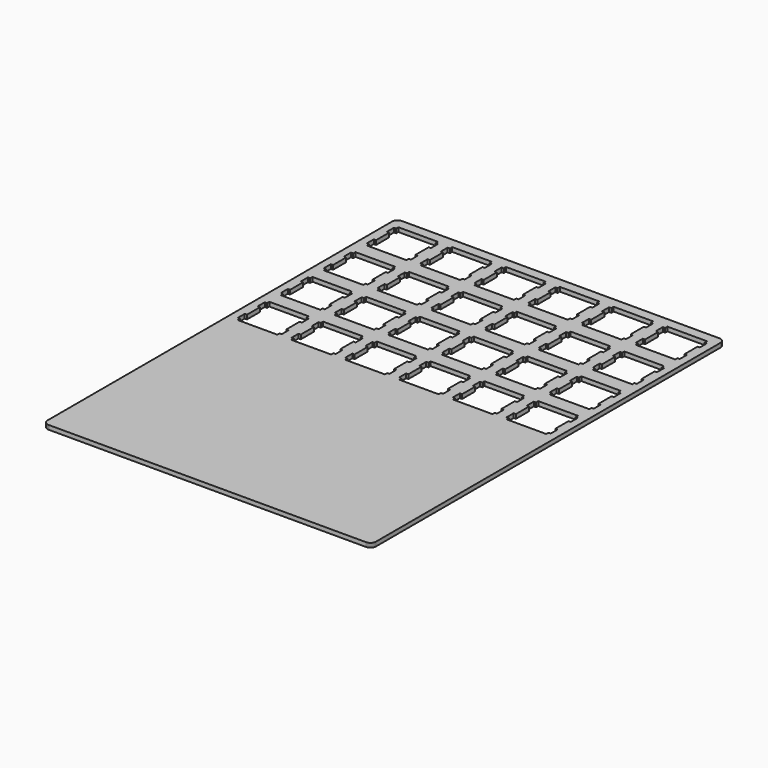
from build123d import *

# Parameters (mm, degrees)
F1_DEPTH = 1.5


with BuildPart() as f1:
    # F0 (on Top) → F1 (new body)
    with BuildSketch(Plane.XY):
        Polygon((56.992202, 79.155991), (56.835106, 79.161848), (-55.465361, 79.161848), (-55.622113, 79.155991), (-55.778176, 79.137043), (-55.932171, 79.107071), (-56.083067, 79.064007), (-56.230172, 79.010264), (-56.373144, 78.944118), (-56.510258, 78.866948), (-56.641172, 78.780131), (-56.764162, 78.68298), (-56.879228, 78.576182), (-56.986026, 78.461115), (-57.083178, 78.338126), (-57.170339, 78.206867), (-57.247164, 78.070097), (-57.31331, 77.927126), (-57.367054, 77.78002), (-57.410117, 77.629125), (-57.44009, 77.475129), (-57.459038, 77.319066), (-57.465239, 77.16197), (-57.465239, -75.23803), (-57.459038, -75.394782), (-57.44009, -75.550845), (-57.410117, -75.70484), (-57.367054, -75.855736), (-57.31331, -76.002841), (-57.247164, -76.145813), (-57.170339, -76.282583), (-57.083178, -76.413841), (-56.986026, -76.536831), (-56.879228, -76.651897), (-56.764162, -76.758695), (-56.641172, -76.855847), (-56.510258, -76.942663), (-56.373144, -77.019833), (-56.230172, -77.085979), (-56.083067, -77.139723), (-55.932171, -77.182786), (-55.778176, -77.212759), (-55.622113, -77.232051), (-55.465361, -77.237908), (56.835106, -77.237908), (56.992202, -77.232051), (57.14792, -77.212759), (57.301572, -77.182786), (57.453156, -77.139723), (57.599917, -77.085979), (57.743233, -77.019833), (57.879659, -76.942663), (58.010572, -76.855847), (58.133907, -76.758695), (58.248973, -76.651897), (58.355771, -76.536831), (58.452922, -76.413841), (58.539739, -76.282583), (58.616909, -76.145813), (58.683055, -76.002841), (58.736798, -75.855736), (58.780207, -75.70484), (58.809834, -75.550845), (58.829127, -75.394782), (58.834639, -75.23803), (58.834639, 77.16197), (58.829127, 77.319066), (58.809834, 77.475129), (58.780207, 77.629125), (58.736798, 77.78002), (58.683055, 77.927126), (58.616909, 78.070097), (58.539739, 78.206867), (58.452922, 78.338126), (58.355771, 78.461115), (58.248973, 78.576182), (58.133907, 78.68298), (58.010572, 78.780131), (57.879659, 78.866948), (57.743233, 78.944118), (57.599917, 79.010264), (57.453156, 79.064007), (57.301572, 79.107071), (57.14792, 79.137043), align=None)
        Polygon((-39.140087, 5.487103), (-39.940038, 5.487103), (-39.940038, 4.486647), (-53.940217, 4.486647), (-53.940217, 5.487103), (-54.740168, 5.487103), (-54.740168, 8.587), (-53.940217, 8.587), (-53.940217, 14.387163), (-54.740168, 14.387163), (-54.740168, 17.487059), (-53.940217, 17.487059), (-53.940217, 18.486826), (-39.940038, 18.486826), (-39.940038, 17.487059), (-39.140087, 17.487059), (-39.140087, 14.387163), (-39.940038, 14.387163), (-39.940038, 8.587), (-39.140087, 8.587), align=None, mode=Mode.SUBTRACT)
        Polygon((-39.140087, 24.537103), (-39.940038, 24.537103), (-39.940038, 23.536647), (-53.940217, 23.536647), (-53.940217, 24.537103), (-54.740168, 24.537103), (-54.740168, 27.637), (-53.940217, 27.637), (-53.940217, 33.437163), (-54.740168, 33.437163), (-54.740168, 36.537059), (-53.940217, 36.537059), (-53.940217, 37.536826), (-39.940038, 37.536826), (-39.940038, 36.537059), (-39.140087, 36.537059), (-39.140087, 33.437163), (-39.940038, 33.437163), (-39.940038, 27.637), (-39.140087, 27.637), align=None, mode=Mode.SUBTRACT)
        Polygon((-20.090087, 5.487103), (-20.890038, 5.487103), (-20.890038, 4.486647), (-34.890217, 4.486647), (-34.890217, 5.487103), (-35.690168, 5.487103), (-35.690168, 8.587), (-34.890217, 8.587), (-34.890217, 14.387163), (-35.690168, 14.387163), (-35.690168, 17.487059), (-34.890217, 17.487059), (-34.890217, 18.486826), (-20.890038, 18.486826), (-20.890038, 17.487059), (-20.090087, 17.487059), (-20.090087, 14.387163), (-20.890038, 14.387163), (-20.890038, 8.587), (-20.090087, 8.587), align=None, mode=Mode.SUBTRACT)
        Polygon((-1.040087, 5.487103), (-1.840038, 5.487103), (-1.840038, 4.486647), (-15.840217, 4.486647), (-15.840217, 5.487103), (-16.640168, 5.487103), (-16.640168, 8.587), (-15.840217, 8.587), (-15.840217, 14.387163), (-16.640168, 14.387163), (-16.640168, 17.487059), (-15.840217, 17.487059), (-15.840217, 18.486826), (-1.840038, 18.486826), (-1.840038, 17.487059), (-1.040087, 17.487059), (-1.040087, 14.387163), (-1.840038, 14.387163), (-1.840038, 8.587), (-1.040087, 8.587), align=None, mode=Mode.SUBTRACT)
        Polygon((-20.090087, 24.537103), (-20.890038, 24.537103), (-20.890038, 23.536647), (-34.890217, 23.536647), (-34.890217, 24.537103), (-35.690168, 24.537103), (-35.690168, 27.637), (-34.890217, 27.637), (-34.890217, 33.437163), (-35.690168, 33.437163), (-35.690168, 36.537059), (-34.890217, 36.537059), (-34.890217, 37.536826), (-20.890038, 37.536826), (-20.890038, 36.537059), (-20.090087, 36.537059), (-20.090087, 33.437163), (-20.890038, 33.437163), (-20.890038, 27.637), (-20.090087, 27.637), align=None, mode=Mode.SUBTRACT)
        Polygon((-1.040087, 24.537103), (-1.840038, 24.537103), (-1.840038, 23.536647), (-15.840217, 23.536647), (-15.840217, 24.537103), (-16.640168, 24.537103), (-16.640168, 27.637), (-15.840217, 27.637), (-15.840217, 33.437163), (-16.640168, 33.437163), (-16.640168, 36.537059), (-15.840217, 36.537059), (-15.840217, 37.536826), (-1.840038, 37.536826), (-1.840038, 36.537059), (-1.040087, 36.537059), (-1.040087, 33.437163), (-1.840038, 33.437163), (-1.840038, 27.637), (-1.040087, 27.637), align=None, mode=Mode.SUBTRACT)
        Polygon((-39.140087, 43.586931), (-39.940038, 43.586931), (-39.940038, 42.586819), (-53.940217, 42.586819), (-53.940217, 43.586931), (-54.740168, 43.586931), (-54.740168, 46.686828), (-53.940217, 46.686828), (-53.940217, 52.486818), (-54.740168, 52.486818), (-54.740168, 55.586887), (-53.940217, 55.586887), (-53.940217, 56.586826), (-39.940038, 56.586826), (-39.940038, 55.586887), (-39.140087, 55.586887), (-39.140087, 52.486818), (-39.940038, 52.486818), (-39.940038, 46.686828), (-39.140087, 46.686828), align=None, mode=Mode.SUBTRACT)
        Polygon((-39.140087, 62.636931), (-39.940038, 62.636931), (-39.940038, 61.636819), (-53.940217, 61.636819), (-53.940217, 62.636931), (-54.740168, 62.636931), (-54.740168, 65.736828), (-53.940217, 65.736828), (-53.940217, 71.536818), (-54.740168, 71.536818), (-54.740168, 74.636887), (-53.940217, 74.636887), (-53.940217, 75.636826), (-39.940038, 75.636826), (-39.940038, 74.636887), (-39.140087, 74.636887), (-39.140087, 71.536818), (-39.940038, 71.536818), (-39.940038, 65.736828), (-39.140087, 65.736828), align=None, mode=Mode.SUBTRACT)
        Polygon((-20.090087, 43.586931), (-20.890038, 43.586931), (-20.890038, 42.586819), (-34.890217, 42.586819), (-34.890217, 43.586931), (-35.690168, 43.586931), (-35.690168, 46.686828), (-34.890217, 46.686828), (-34.890217, 52.486818), (-35.690168, 52.486818), (-35.690168, 55.586887), (-34.890217, 55.586887), (-34.890217, 56.586826), (-20.890038, 56.586826), (-20.890038, 55.586887), (-20.090087, 55.586887), (-20.090087, 52.486818), (-20.890038, 52.486818), (-20.890038, 46.686828), (-20.090087, 46.686828), align=None, mode=Mode.SUBTRACT)
        Polygon((-1.040087, 43.586931), (-1.840038, 43.586931), (-1.840038, 42.586819), (-15.840217, 42.586819), (-15.840217, 43.586931), (-16.640168, 43.586931), (-16.640168, 46.686828), (-15.840217, 46.686828), (-15.840217, 52.486818), (-16.640168, 52.486818), (-16.640168, 55.586887), (-15.840217, 55.586887), (-15.840217, 56.586826), (-1.840038, 56.586826), (-1.840038, 55.586887), (-1.040087, 55.586887), (-1.040087, 52.486818), (-1.840038, 52.486818), (-1.840038, 46.686828), (-1.040087, 46.686828), align=None, mode=Mode.SUBTRACT)
        Polygon((-20.090087, 62.636931), (-20.890038, 62.636931), (-20.890038, 61.636819), (-34.890217, 61.636819), (-34.890217, 62.636931), (-35.690168, 62.636931), (-35.690168, 65.736828), (-34.890217, 65.736828), (-34.890217, 71.536818), (-35.690168, 71.536818), (-35.690168, 74.636887), (-34.890217, 74.636887), (-34.890217, 75.636826), (-20.890038, 75.636826), (-20.890038, 74.636887), (-20.090087, 74.636887), (-20.090087, 71.536818), (-20.890038, 71.536818), (-20.890038, 65.736828), (-20.090087, 65.736828), align=None, mode=Mode.SUBTRACT)
        Polygon((-1.040087, 62.636931), (-1.840038, 62.636931), (-1.840038, 61.636819), (-15.840217, 61.636819), (-15.840217, 62.636931), (-16.640168, 62.636931), (-16.640168, 65.736828), (-15.840217, 65.736828), (-15.840217, 71.536818), (-16.640168, 71.536818), (-16.640168, 74.636887), (-15.840217, 74.636887), (-15.840217, 75.636826), (-1.840038, 75.636826), (-1.840038, 74.636887), (-1.040087, 74.636887), (-1.040087, 71.536818), (-1.840038, 71.536818), (-1.840038, 65.736828), (-1.040087, 65.736828), align=None, mode=Mode.SUBTRACT)
        Polygon((18.009913, 5.487103), (17.209962, 5.487103), (17.209962, 4.486647), (3.209783, 4.486647), (3.209783, 5.487103), (2.409832, 5.487103), (2.409832, 8.587), (3.209783, 8.587), (3.209783, 14.387163), (2.409832, 14.387163), (2.409832, 17.487059), (3.209783, 17.487059), (3.209783, 18.486826), (17.209962, 18.486826), (17.209962, 17.487059), (18.009913, 17.487059), (18.009913, 14.387163), (17.209962, 14.387163), (17.209962, 8.587), (18.009913, 8.587), align=None, mode=Mode.SUBTRACT)
        Polygon((37.059913, 5.487103), (36.259962, 5.487103), (36.259962, 4.486647), (22.259783, 4.486647), (22.259783, 5.487103), (21.459832, 5.487103), (21.459832, 8.587), (22.259783, 8.587), (22.259783, 14.387163), (21.459832, 14.387163), (21.459832, 17.487059), (22.259783, 17.487059), (22.259783, 18.486826), (36.259962, 18.486826), (36.259962, 17.487059), (37.059913, 17.487059), (37.059913, 14.387163), (36.259962, 14.387163), (36.259962, 8.587), (37.059913, 8.587), align=None, mode=Mode.SUBTRACT)
        Polygon((18.009913, 24.537103), (17.209962, 24.537103), (17.209962, 23.536647), (3.209783, 23.536647), (3.209783, 24.537103), (2.409832, 24.537103), (2.409832, 27.637), (3.209783, 27.637), (3.209783, 33.437163), (2.409832, 33.437163), (2.409832, 36.537059), (3.209783, 36.537059), (3.209783, 37.536826), (17.209962, 37.536826), (17.209962, 36.537059), (18.009913, 36.537059), (18.009913, 33.437163), (17.209962, 33.437163), (17.209962, 27.637), (18.009913, 27.637), align=None, mode=Mode.SUBTRACT)
        Polygon((37.059913, 24.537103), (36.259962, 24.537103), (36.259962, 23.536647), (22.259783, 23.536647), (22.259783, 24.537103), (21.459832, 24.537103), (21.459832, 27.637), (22.259783, 27.637), (22.259783, 33.437163), (21.459832, 33.437163), (21.459832, 36.537059), (22.259783, 36.537059), (22.259783, 37.536826), (36.259962, 37.536826), (36.259962, 36.537059), (37.059913, 36.537059), (37.059913, 33.437163), (36.259962, 33.437163), (36.259962, 27.637), (37.059913, 27.637), align=None, mode=Mode.SUBTRACT)
        Polygon((56.109568, 5.487103), (55.309617, 5.487103), (55.309617, 4.486647), (41.309783, 4.486647), (41.309783, 5.487103), (40.509832, 5.487103), (40.509832, 8.587), (41.309783, 8.587), (41.309783, 14.387163), (40.509832, 14.387163), (40.509832, 17.487059), (41.309783, 17.487059), (41.309783, 18.486826), (55.309617, 18.486826), (55.309617, 17.487059), (56.109568, 17.487059), (56.109568, 14.387163), (55.309617, 14.387163), (55.309617, 8.587), (56.109568, 8.587), align=None, mode=Mode.SUBTRACT)
        Polygon((56.109568, 24.537103), (55.309617, 24.537103), (55.309617, 23.536647), (41.309783, 23.536647), (41.309783, 24.537103), (40.509832, 24.537103), (40.509832, 27.637), (41.309783, 27.637), (41.309783, 33.437163), (40.509832, 33.437163), (40.509832, 36.537059), (41.309783, 36.537059), (41.309783, 37.536826), (55.309617, 37.536826), (55.309617, 36.537059), (56.109568, 36.537059), (56.109568, 33.437163), (55.309617, 33.437163), (55.309617, 27.637), (56.109568, 27.637), align=None, mode=Mode.SUBTRACT)
        Polygon((18.009913, 43.586931), (17.209962, 43.586931), (17.209962, 42.586819), (3.209783, 42.586819), (3.209783, 43.586931), (2.409832, 43.586931), (2.409832, 46.686828), (3.209783, 46.686828), (3.209783, 52.486818), (2.409832, 52.486818), (2.409832, 55.586887), (3.209783, 55.586887), (3.209783, 56.586826), (17.209962, 56.586826), (17.209962, 55.586887), (18.009913, 55.586887), (18.009913, 52.486818), (17.209962, 52.486818), (17.209962, 46.686828), (18.009913, 46.686828), align=None, mode=Mode.SUBTRACT)
        Polygon((37.059913, 43.586931), (36.259962, 43.586931), (36.259962, 42.586819), (22.259783, 42.586819), (22.259783, 43.586931), (21.459832, 43.586931), (21.459832, 46.686828), (22.259783, 46.686828), (22.259783, 52.486818), (21.459832, 52.486818), (21.459832, 55.586887), (22.259783, 55.586887), (22.259783, 56.586826), (36.259962, 56.586826), (36.259962, 55.586887), (37.059913, 55.586887), (37.059913, 52.486818), (36.259962, 52.486818), (36.259962, 46.686828), (37.059913, 46.686828), align=None, mode=Mode.SUBTRACT)
        Polygon((18.009913, 62.636931), (17.209962, 62.636931), (17.209962, 61.636819), (3.209783, 61.636819), (3.209783, 62.636931), (2.409832, 62.636931), (2.409832, 65.736828), (3.209783, 65.736828), (3.209783, 71.536818), (2.409832, 71.536818), (2.409832, 74.636887), (3.209783, 74.636887), (3.209783, 75.636826), (17.209962, 75.636826), (17.209962, 74.636887), (18.009913, 74.636887), (18.009913, 71.536818), (17.209962, 71.536818), (17.209962, 65.736828), (18.009913, 65.736828), align=None, mode=Mode.SUBTRACT)
        Polygon((37.059913, 62.636931), (36.259962, 62.636931), (36.259962, 61.636819), (22.259783, 61.636819), (22.259783, 62.636931), (21.459832, 62.636931), (21.459832, 65.736828), (22.259783, 65.736828), (22.259783, 71.536818), (21.459832, 71.536818), (21.459832, 74.636887), (22.259783, 74.636887), (22.259783, 75.636826), (36.259962, 75.636826), (36.259962, 74.636887), (37.059913, 74.636887), (37.059913, 71.536818), (36.259962, 71.536818), (36.259962, 65.736828), (37.059913, 65.736828), align=None, mode=Mode.SUBTRACT)
        Polygon((56.109568, 43.586931), (55.309617, 43.586931), (55.309617, 42.586819), (41.309783, 42.586819), (41.309783, 43.586931), (40.509832, 43.586931), (40.509832, 46.686828), (41.309783, 46.686828), (41.309783, 52.486818), (40.509832, 52.486818), (40.509832, 55.586887), (41.309783, 55.586887), (41.309783, 56.586826), (55.309617, 56.586826), (55.309617, 55.586887), (56.109568, 55.586887), (56.109568, 52.486818), (55.309617, 52.486818), (55.309617, 46.686828), (56.109568, 46.686828), align=None, mode=Mode.SUBTRACT)
        Polygon((56.109568, 62.636931), (55.309617, 62.636931), (55.309617, 61.636819), (41.309783, 61.636819), (41.309783, 62.636931), (40.509832, 62.636931), (40.509832, 65.736828), (41.309783, 65.736828), (41.309783, 71.536818), (40.509832, 71.536818), (40.509832, 74.636887), (41.309783, 74.636887), (41.309783, 75.636826), (55.309617, 75.636826), (55.309617, 74.636887), (56.109568, 74.636887), (56.109568, 71.536818), (55.309617, 71.536818), (55.309617, 65.736828), (56.109568, 65.736828), align=None, mode=Mode.SUBTRACT)
    extrude(amount=F1_DEPTH)


solid = f1.part
